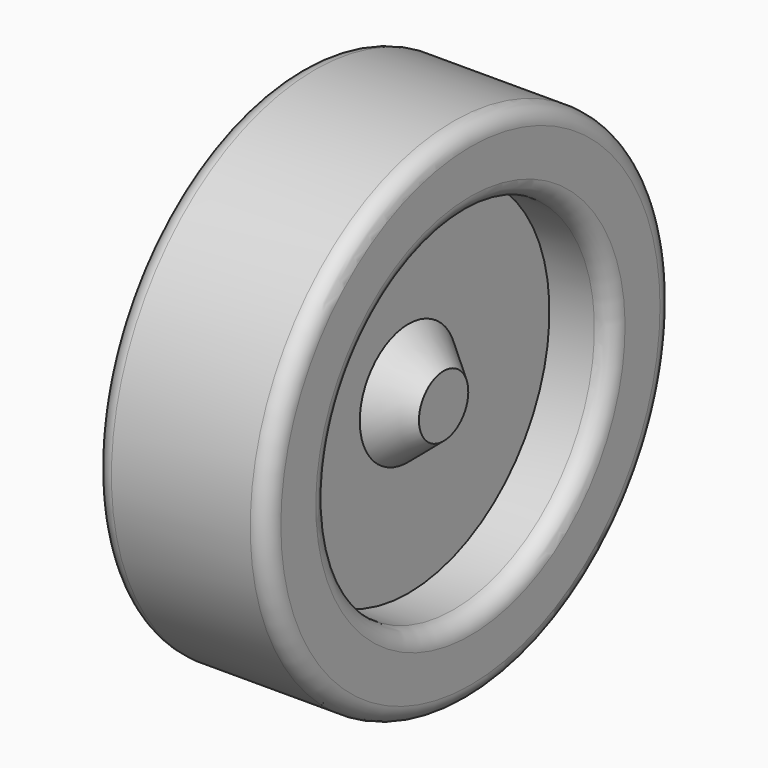
from build123d import *

# Parameters (mm, degrees)
F2_R = 5.08


with BuildPart() as f1:
    # F0 (on Front) → F1 (revolve)
    with BuildSketch(Plane.XZ):
        Polygon((27.112752, 75.873926), (-24.522483, 75.873926), (-24.522483, 52.665513), (-8.108169, 52.665513), (8.580714, 52.665513), (27.112752, 52.665513), align=None)
        Polygon((8.580714, 52.665513), (-8.108169, 52.665513), (-8.108169, 18.153585), (-8.108169, 0), (8.580714, 0), (8.580714, 18.153585), align=None)
        Polygon((-8.108169, 0), (-8.108169, 18.153585), (-18.266559, 9.21195), (-18.266559, 0), align=None)
        Polygon((19.105047, 9.21195), (8.580714, 18.153585), (8.580714, 0), (19.105047, 0), align=None)
    revolve(axis=Axis((0.236273, 0, 0), (1, 0, 0)))

    # F2
    f2_edges = [f1.edges().sort_by_distance(p)[0] for p in [
        (-24.522483, 0, -75.873926),
        (-24.522483, 0, -52.665513),
        (27.112752, 0, -75.873926),
        (27.112752, 0, -52.665513),
    ]]
    fillet(f2_edges, radius=F2_R)


solid = f1.part
